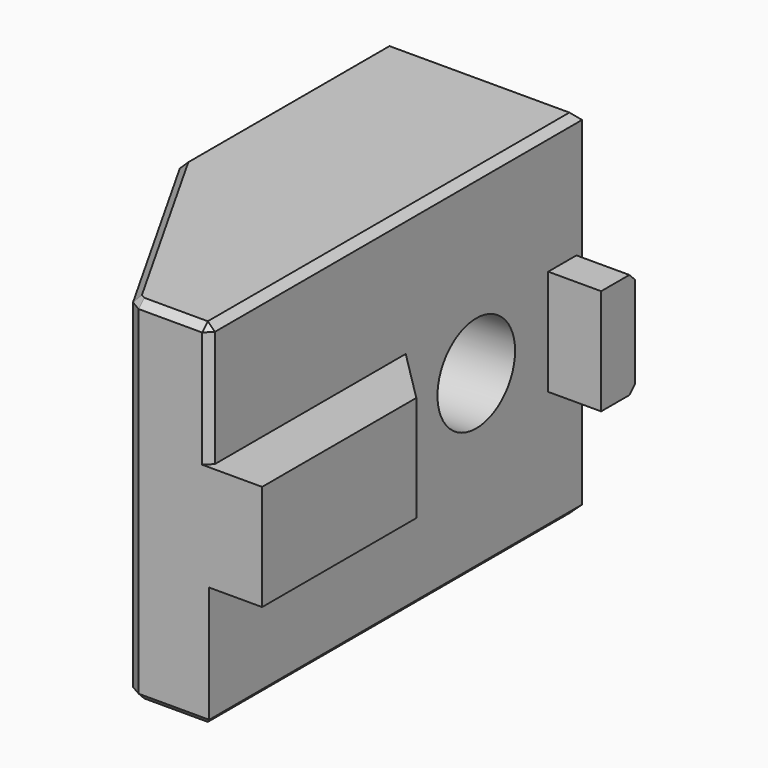
from build123d import *

# Parameters (mm, degrees)
PAD097_DEPTH        = 10
SKETCH351_W         = 3
SKETCH351_H         = 2.4
PAD098_DEPTH        = 3
HOLE_D              = 5.5
HOLE_CBORE_D        = 10
HOLE_CBORE_DEPTH    = 5.4
HOLE041_D           = 4.5
HOLE041_DEPTH       = 7
HOLE041_CBORE_D     = 5.6
HOLE041_CBORE_DEPTH = 4
HOLE041_TIPS_R      = 2.25
CHAMFER006_SIZE     = 0.4


with BuildPart() as part:
    # Sketch350 → Pad097 (new body, symmetric)
    with BuildSketch(Plane.XY):
        Polygon((92, 73), (103, 73), (103, 46.573101), (98.597712, 46.573101), (92, 58.23869), align=None)
    extrude(amount=PAD097_DEPTH, both=True)

    # Sketch351 → Pad098 (join, symmetric)
    with BuildSketch(Plane.XY):
        Polygon((103, 46.573101), (106, 46.573101), (106, 57.5), (103, 60.5), align=None)
        with Locations((104.5, 71.8)):
            Rectangle(SKETCH351_W, SKETCH351_H)
    extrude(amount=PAD098_DEPTH, both=True)

    # Hole (through all)
    with Locations(Plane(origin=(92, 0, 0), x_dir=(0, -1, 0), z_dir=(-1, 0, 0))):
        with Locations((-65.5, 0)):
            CounterBoreHole(HOLE_D / 2, HOLE_CBORE_D / 2, HOLE_CBORE_DEPTH)

    # Hole041
    with Locations(Plane(origin=(94.659391, 53.536551, 0), x_dir=(0.49229, -0.870431, 0), z_dir=(-0.870431, -0.49229, 0))):
        with Locations((0, 0)):
            CounterBoreHole(HOLE041_D / 2, HOLE041_CBORE_D / 2, HOLE041_CBORE_DEPTH, depth=HOLE041_DEPTH)

    # Hole041 tips → Hole041 tip 1 section 0
    with BuildSketch(Plane(origin=(100.752409, 56.982581, 0), x_dir=(0.49229, -0.870431, 0), z_dir=(-0.870431, -0.49229, 0)), mode=Mode.PRIVATE) as hole041_tip_1_s0:
        Circle(HOLE041_TIPS_R)
    loft([hole041_tip_1_s0.sketch, Vertex(101.929177, 57.648126, 0)], mode=Mode.SUBTRACT)

    # Chamfer006
    chamfer006_edges = [part.edges().sort_by_distance(p)[0] for p in [
        (97.5, 73, 10),
        (103, 59.786551, 10),
        (100.798856, 46.573101, 10),
        (95.298856, 52.405895, 10),
        (92, 65.619345, 10),
        (98.597712, 46.573101, 0),
        (97.5, 73, -10),
        (103, 59.786551, -10),
        (100.798856, 46.573101, -10),
        (95.298856, 52.405895, -10),
        (92, 65.619345, -10),
        (92, 73, 0),
        (103, 46.573101, 6.5),
        (104.5, 73, 3),
        (104.5, 73, -3),
    ]]
    chamfer(chamfer006_edges, length=CHAMFER006_SIZE)


with BuildPart() as part_1:
    # Body022073 placement: moved
    add(part.part.moved(Location((0, 0, -132))))


solid = part_1.part
